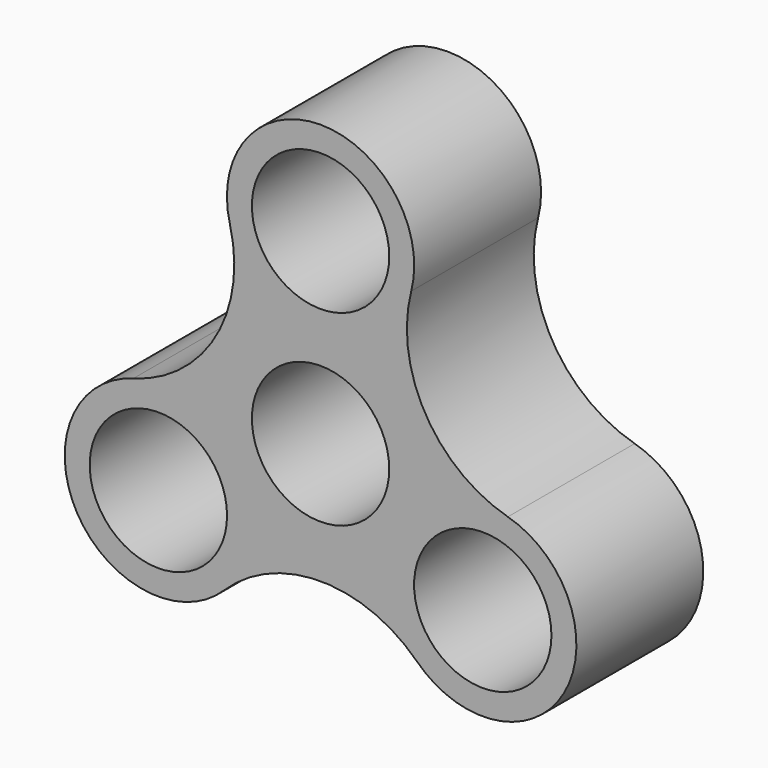
from build123d import *

# Parameters (mm, degrees)
F0_R     = 11
F1_DEPTH = 25.4


with BuildPart() as f1:
    # F0 (on Front) → F1 (new body)
    with BuildSketch(Plane.XZ):
        with BuildLine():
            ThreePointArc((29.995011, -0.547118), (16.780923, 9.688471), (14.523688, 26.25))
            ThreePointArc((14.523688, 26.25), (0, 45), (-14.523688, 26.25))
            ThreePointArc((-14.523688, 26.25), (-16.780923, 9.688471), (-29.995011, -0.547118))
            ThreePointArc((-29.995011, -0.547118), (-38.971143, -22.5), (-15.471323, -25.702882))
            ThreePointArc((-15.471323, -25.702882), (0, -19.376941), (15.471323, -25.702882))
            ThreePointArc((15.471323, -25.702882), (38.971143, -22.5), (29.995011, -0.547118))
        make_face()
        with Locations((-25.980762, -15)):
            Circle(F0_R, mode=Mode.SUBTRACT)
        with Locations((25.980762, -15)):
            Circle(F0_R, mode=Mode.SUBTRACT)
        Circle(F0_R, mode=Mode.SUBTRACT)
        with Locations((0, 30)):
            Circle(F0_R, mode=Mode.SUBTRACT)
    extrude(amount=F1_DEPTH)


solid = f1.part
